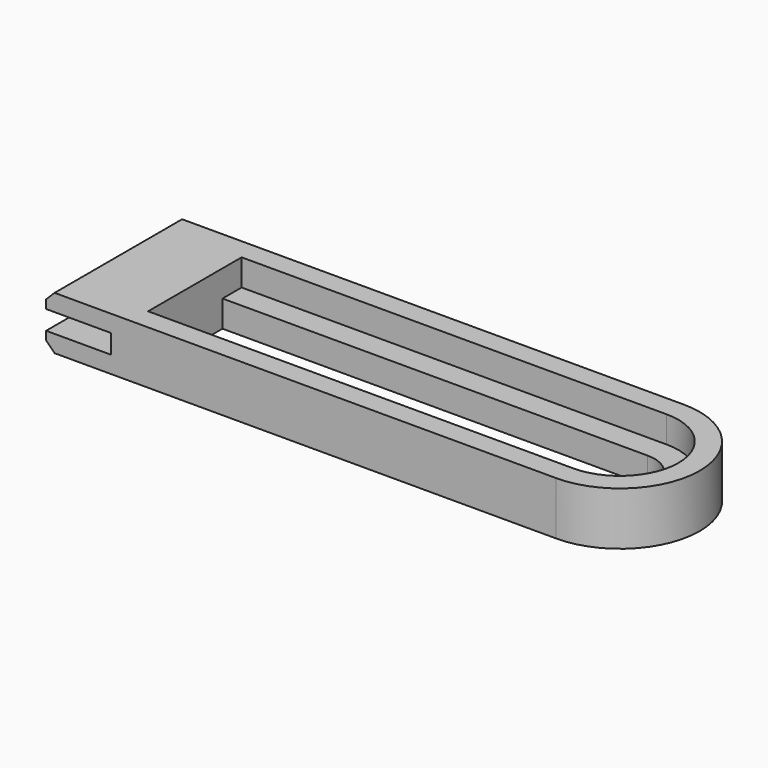
from build123d import *

# Parameters (mm, degrees)
PAD001_DEPTH    = 5
POCKET003_DEPTH = 2.501
PAD002_DEPTH    = 15


with BuildPart() as part:
    # Sketch005 → Pad001 (new body)
    with BuildSketch(Plane.XY.offset(8.5)):
        with BuildLine():
            ThreePointArc((0, -7.5), (7.5, 0), (0, 7.5))
            Line((0, 7.5), (-40, 7.5))
            Line((-40, 7.5), (-40, 3.25))
            Line((0, 3.25), (-40, 3.25))
            ThreePointArc((0, -3.25), (3.25, 0), (0, 3.25))
            Line((0, -3.25), (-40, -3.25))
            Line((-40, -3.25), (-40, -7.5))
            Line((0, -7.5), (-40, -7.5))
        make_face()
    extrude(amount=PAD001_DEPTH)

    # Sketch006 → Pocket003 (cut, through all)
    with BuildSketch(Plane.XY.offset(11)):
        with BuildLine():
            ThreePointArc((0, -5.5), (5.5, 0), (0, 5.5))
            Line((0, 5.5), (-40, 5.5))
            ThreePointArc((-40, 5.5), (-45.5, 0), (-40, -5.5))
            Line((0, -5.5), (-40, -5.5))
        make_face()
    extrude(amount=POCKET003_DEPTH, mode=Mode.SUBTRACT)

    # Sketch007 → Pad002 (join)
    with BuildSketch(Plane.XZ.offset(7.5)):
        Polygon((-40, 13.5), (-47.2, 13.5), (-48, 12.7), (-48, 11.9), (-41.875, 11.9), (-41.875, 10.1), (-48, 10.1), (-48, 9.3), (-47.2, 8.5), (-40, 8.5), align=None)
    extrude(amount=-PAD002_DEPTH)


solid = part.part
